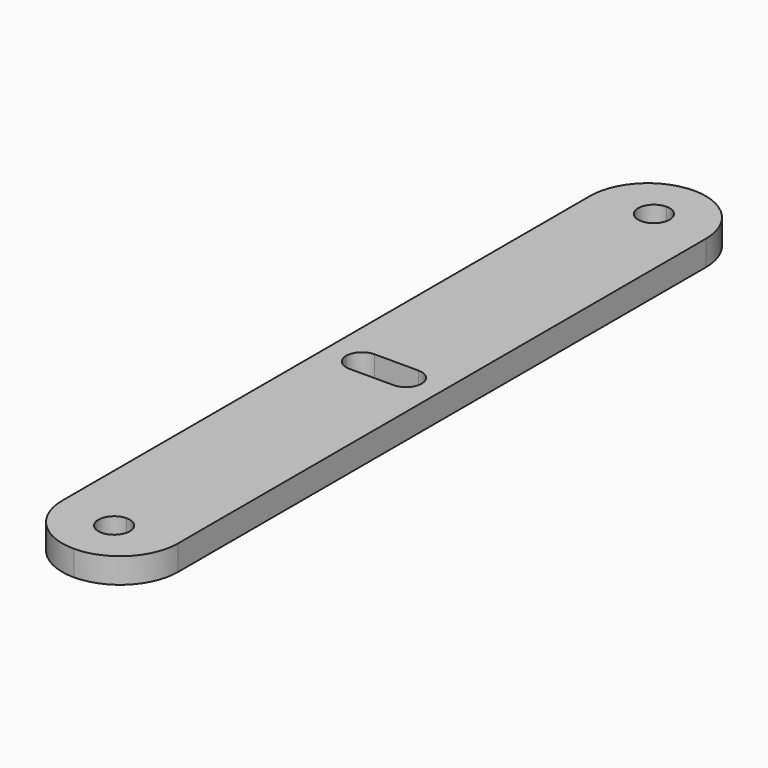
from build123d import *

# Parameters (mm, degrees)
F1_DEPTH = 2


with BuildPart() as f1:
    # F0 (on Top) → F1 (new body)
    with BuildSketch(Plane.XY):
        with BuildLine():
            Line((2.304214, 26.2), (2.304214, 0))
            Line((2.304214, 0), (3.904214, 0))
            ThreePointArc((3.904214, 0), (4.27033, 0.883883), (5.154214, 1.25))
            Line((5.154214, 1.25), (6.904214, 1.25))
            Line((6.904214, 1.25), (6.904214, 25.552756))
            ThreePointArc((6.904214, 25.552756), (5.65697, 26.8), (6.904214, 28.047244))
            Line((6.904214, 28.047244), (6.904214, 30.8))
            ThreePointArc((6.904214, 30.8), (3.651522, 29.452691), (2.304214, 26.2))
        make_face()
        with BuildLine():
            Line((3.904214, 0), (2.304214, 0))
            Line((2.304214, 0), (2.304214, -26.2))
            ThreePointArc((2.304214, -26.2), (3.651522, -29.452691), (6.904214, -30.8))
            Line((6.904214, -30.8), (6.904214, -28.047244))
            ThreePointArc((6.904214, -28.047244), (5.65697, -26.8), (6.904214, -25.552756))
            Line((6.904214, -25.552756), (6.904214, -1.25))
            Line((6.904214, -1.25), (5.154214, -1.25))
            ThreePointArc((5.154214, -1.25), (4.27033, -0.883883), (3.904214, 0))
        make_face()
        with BuildLine():
            ThreePointArc((11.504214, 26.2), (10.156905, 29.452691), (6.904214, 30.8))
            Line((6.904214, 30.8), (6.904214, 28.047244))
            ThreePointArc((6.904214, 28.047244), (7.786148, 27.681934), (8.151457, 26.8))
            ThreePointArc((8.151457, 26.8), (7.786148, 25.918066), (6.904214, 25.552756))
            Line((6.904214, 25.552756), (6.904214, 1.25))
            Line((6.904214, 1.25), (8.654214, 1.25))
            ThreePointArc((8.654214, 1.25), (9.538097, 0.883883), (9.904214, 0))
            Line((9.904214, 0), (11.504214, 0))
            Line((11.504214, 0), (11.504214, 26.2))
        make_face()
        with BuildLine():
            Line((6.904214, -28.047244), (6.904214, -30.8))
            ThreePointArc((6.904214, -30.8), (10.156905, -29.452691), (11.504214, -26.2))
            Line((11.504214, -26.2), (11.504214, 0))
            Line((11.504214, 0), (9.904214, 0))
            ThreePointArc((9.904214, 0), (9.538097, -0.883883), (8.654214, -1.25))
            Line((8.654214, -1.25), (6.904214, -1.25))
            Line((6.904214, -1.25), (6.904214, -25.552756))
            ThreePointArc((6.904214, -25.552756), (7.786148, -25.918066), (8.151457, -26.8))
            ThreePointArc((8.151457, -26.8), (7.786148, -27.681934), (6.904214, -28.047244))
        make_face()
    extrude(amount=F1_DEPTH)


solid = f1.part
